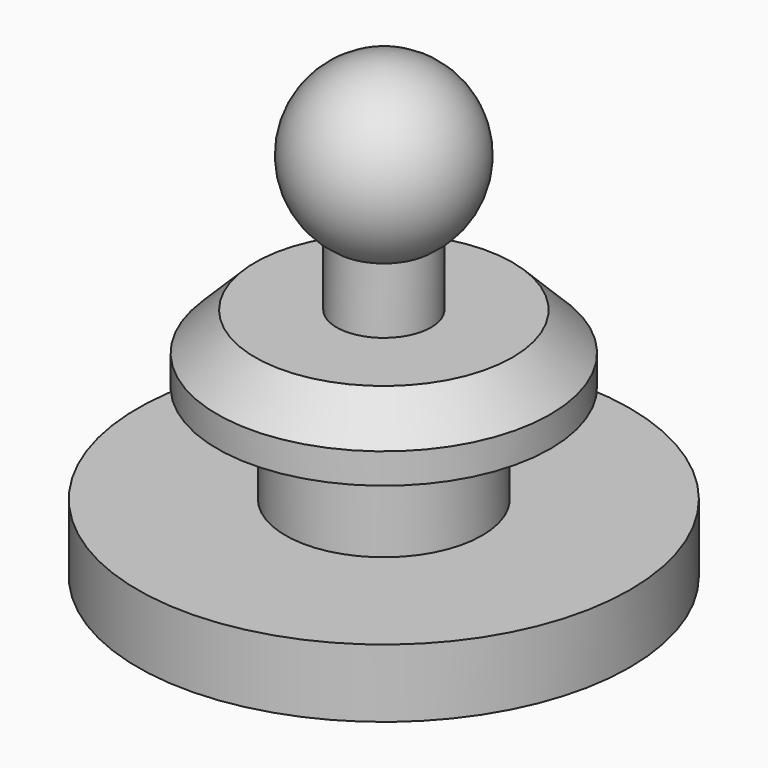
from build123d import *

# Parameters (mm, degrees)
F0_R     = 6.5
F1_DEPTH = 1.8
F2_R     = 2.6
F4_DEPTH = 2.6
F5_R     = 4.4
F6_DEPTH = 1.8
F7_SIZE  = 1
F8_R     = 1.25
F9_DEPTH = 1.8


with BuildPart() as f1:
    # F0 (on Top) → F1 (new body)
    with BuildSketch(Plane.XY):
        Circle(F0_R)
    extrude(amount=F1_DEPTH)

    # F2 (on face) → F4 (join)
    with BuildSketch(Plane.XY.offset(1.8)):
        Circle(F2_R)
    extrude(amount=F4_DEPTH)

    # F5 (on face) → F6 (join, through all)
    with BuildSketch(Plane.XY.offset(4.4)):
        Circle(F5_R)
    extrude(amount=F6_DEPTH)

    # F7
    f7_edges = [f1.edges().sort_by_distance(p)[0] for p in [
        (-4.4, 0, 6.2),
    ]]
    chamfer(f7_edges, length=F7_SIZE)

    # F8 (on face) → F9 (join)
    with BuildSketch(Plane.XY.offset(6.2)):
        Circle(F8_R)
    extrude(amount=F9_DEPTH)

    # F10 (on Right) → F11 (revolve)
    with BuildSketch(Plane.YZ):
        with BuildLine():
            Line((0, 12.05), (0, 7.55))
            ThreePointArc((0, 7.55), (2.25, 9.8), (0, 12.05))
        make_face()
    revolve(axis=Axis((0, 0, 9.8), (0, 0, 1)))


solid = f1.part
